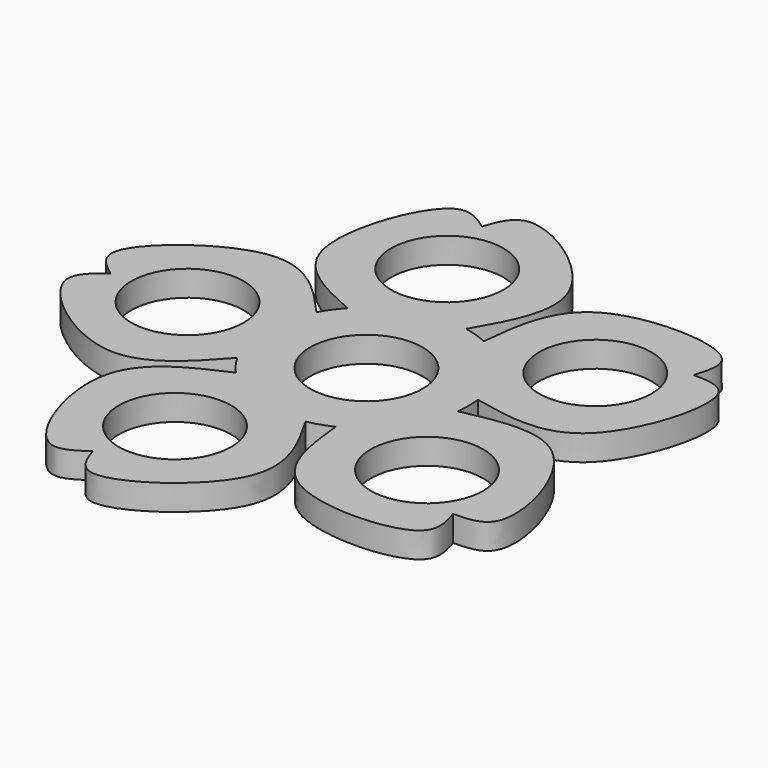
from build123d import *

# Parameters (mm, degrees)
F0_R     = 11
F1_DEPTH = 5


with BuildPart() as f1:
    # F0 (on Top) → F1 (new body)
    with BuildSketch(Plane.XY):
        with BuildLine():
            add(Edge.make_bspline(
                [(-17.5, -9.6824583655), (-22.4634119347, -15.1856128896), (-32.3605255698, -26.1607520277), (-51.0783007106, -12.4923799065), (-53.5111836847, -7.5720590721)],
                knots=[0, 0, 0, 0, 0.3705113326, 0.7389796386, 0.7389796386, 0.7389796386, 0.7389796386], degree=3))
            ThreePointArc((-17.5, -9.6824583655), (-16.1803398875, -11.7557050458), (-14.6163625238, -13.6514448529))
            add(Edge.make_bspline(
                [(-14.6163625238, -13.6514448529), (-21.3839521321, -16.6713618458), (-35.5413841388, -22.9875025201), (-24.4047028305, -53.8534939772), (-17.8127933245, -49.2308898806), (-15.4631871237, -47.590796443)],
                knots=[0, 0, 0, 0, 0.3705113326, 0.7751763226, 1, 1, 1, 1], degree=3))
            add(Edge.make_bspline(
                [(3.8007677207, -19.6355332174), (7.5008000532, -26.0565867516), (15.2418688036, -39.4879816399), (-11.9104702117, -57.9131162444), (-14.5263385123, -50.2987237798), (-15.4631871237, -47.590796443)],
                knots=[0, 0, 0, 0, 0.3705113326, 0.7751763226, 1, 1, 1, 1], degree=3))
            ThreePointArc((3.8007677207, -19.6355332174), (6.1803398875, -19.0211303259), (8.4665911684, -18.1195152802))
            add(Edge.make_bspline(
                [(8.4665911684, -18.1195152802), (9.2474027033, -25.4890811491), (10.8795223626, -40.9053939203), (43.676248455, -39.8518965006), (41.3169027694, -32.1541547859), (40.4831494643, -29.4127297534)],
                knots=[0, 0, 0, 0, 0.3705113326, 0.7751763226, 1, 1, 1, 1], degree=3))
            add(Edge.make_bspline(
                [(19.8490036347, -2.4529685501), (27.0991613104, -0.9182433537), (42.2652987403, 2.2934212459), (51.3981088768, -29.2236674237), (43.3480435458, -29.3585293433), (40.4831494643, -29.4127297534)],
                knots=[0, 0, 0, 0, 0.3705113326, 0.7751763226, 1, 1, 1, 1], degree=3))
            ThreePointArc((19.8490036347, -2.4529685501), (20, 0), (19.8490036347, 2.4529685501))
            add(Edge.make_bspline(
                [(19.8490036347, 2.4529685501), (27.0991613104, 0.9182433537), (42.2652987403, -2.2934212459), (51.3981088768, 29.2236674237), (43.3480435458, 29.3585293433), (40.4831494643, 29.4127297534)],
                knots=[0, 0, 0, 0, 0.3705113326, 0.7751763226, 1, 1, 1, 1], degree=3))
            add(Edge.make_bspline(
                [(8.4665911684, 18.1195152802), (9.2474027033, 25.4890811491), (10.8795223626, 40.9053939203), (43.676248455, 39.8518965006), (41.3169027694, 32.1541547859), (40.4831494643, 29.4127297534)],
                knots=[0, 0, 0, 0, 0.3705113326, 0.7751763226, 1, 1, 1, 1], degree=3))
            ThreePointArc((8.4665911684, 18.1195152802), (6.1803398875, 19.0211303259), (3.8007677207, 19.6355332174))
            add(Edge.make_bspline(
                [(3.8007677207, 19.6355332174), (7.5008000532, 26.0565867516), (15.2418688036, 39.4879816399), (-11.9104702117, 57.9131162444), (-14.5263385123, 50.2987237798), (-15.4631871237, 47.590796443)],
                knots=[0, 0, 0, 0, 0.3705113326, 0.7751763226, 1, 1, 1, 1], degree=3))
            add(Edge.make_bspline(
                [(-14.6163625238, 13.6514448529), (-21.3839521321, 16.6713618458), (-35.5413841388, 22.9875025201), (-24.4047028305, 53.8534939772), (-17.8127933245, 49.2308898806), (-15.4631871237, 47.590796443)],
                knots=[0, 0, 0, 0, 0.3705113326, 0.7751763226, 1, 1, 1, 1], degree=3))
            ThreePointArc((-14.6163625238, 13.6514448529), (-16.1803398875, 11.7557050458), (-17.5, 9.6824583655))
            add(Edge.make_bspline(
                [(-17.5, 9.6824583655), (-22.4634119347, 15.1856128896), (-32.3605255698, 26.1607520277), (-51.0783007106, 12.4923799065), (-53.5111836847, 7.5720590721)],
                knots=[0, 0, 0, 0, 0.3705113326, 0.7389796386, 0.7389796386, 0.7389796386, 0.7389796386], degree=3))
            ThreePointArc((-53.5111836847, 7.5720590721), (-53.7783062452, 6.8829655354), (-54.0197868236, 6.1844732342))
            add(Edge.make_bspline(
                [(-54.0197868236, 6.1844732342), (-54.6235109003, 3.4567025562), (-52.3258144785, 1.7277915434), (-50.0399246812, 0)],
                knots=[0.7751763226, 0.7751763226, 0.7751763226, 0.7751763226, 1, 1, 1, 1], degree=3))
            add(Edge.make_bspline(
                [(-54.0197868236, -6.1844732342), (-54.6235109003, -3.4567025562), (-52.3258144785, -1.7277915434), (-50.0399246812, 0)],
                knots=[0.7751763226, 0.7751763226, 0.7751763226, 0.7751763226, 1, 1, 1, 1], degree=3))
            ThreePointArc((-54.0197868236, -6.1844732342), (-53.7783062452, -6.8829655354), (-53.5111836847, -7.5720590721))
        make_face()
        with Locations((-10.8155948031, -33.2869780703)):
            Circle(F0_R, mode=Mode.SUBTRACT)
        with Locations((-35, 0)):
            Circle(F0_R, mode=Mode.SUBTRACT)
        Circle(F0_R, mode=Mode.SUBTRACT)
        with Locations((28.3155948031, -20.5724838302)):
            Circle(F0_R, mode=Mode.SUBTRACT)
        with Locations((-10.8155948031, 33.2869780703)):
            Circle(F0_R, mode=Mode.SUBTRACT)
        with Locations((28.3155948031, 20.5724838302)):
            Circle(F0_R, mode=Mode.SUBTRACT)
        with BuildLine():
            add(Edge.make_bspline(
                [(-53.5111836847, 7.5720590721), (-53.7501792643, 7.088708684), (-53.9225870539, 6.6236451869), (-54.0197868236, 6.1844732342)],
                knots=[0.7389796386, 0.7389796386, 0.7389796386, 0.7389796386, 0.7751763226, 0.7751763226, 0.7751763226, 0.7751763226], degree=3))
            ThreePointArc((-54.0197868236, 6.1844732342), (-53.7783062452, 6.8829655354), (-53.5111836847, 7.5720590721))
        make_face()
        with BuildLine():
            add(Edge.make_bspline(
                [(-53.5111836847, -7.5720590721), (-53.7501792643, -7.088708684), (-53.9225870539, -6.6236451869), (-54.0197868236, -6.1844732342)],
                knots=[0.7389796386, 0.7389796386, 0.7389796386, 0.7389796386, 0.7751763226, 0.7751763226, 0.7751763226, 0.7751763226], degree=3))
            ThreePointArc((-53.5111836847, -7.5720590721), (-53.7783062452, -6.8829655354), (-54.0197868236, -6.1844732342))
        make_face()
    extrude(amount=F1_DEPTH)


solid = f1.part
